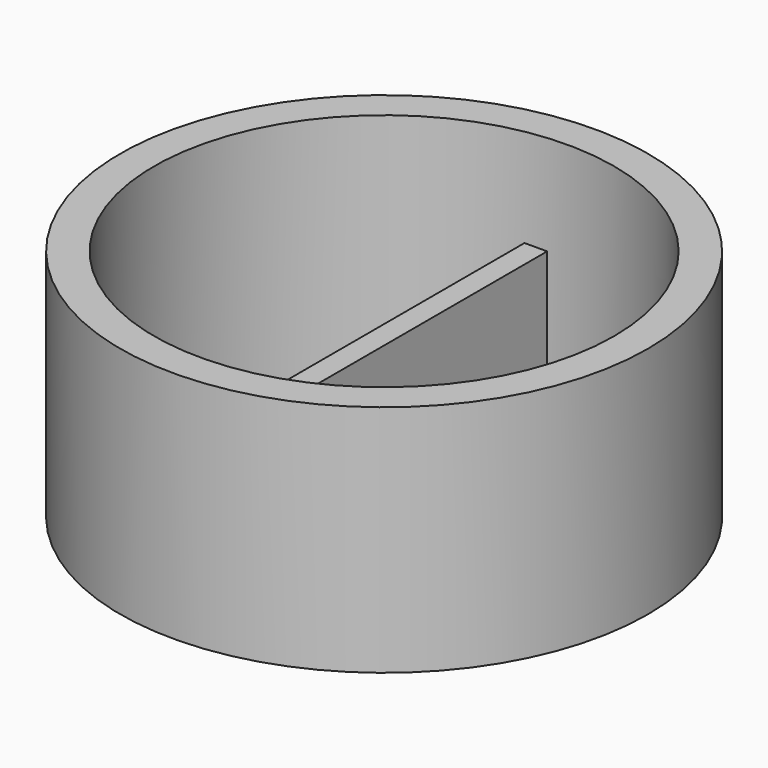
from build123d import *

# Parameters (mm, degrees)
F0_R     = 35
F0_R_2   = 30.5
F1_DEPTH = 31
F3_DEPTH = 18


with BuildPart() as f1:
    # F0 (on Top) → F1 (new body)
    with BuildSketch(Plane.XY):
        Circle(F0_R)
        Circle(F0_R_2, mode=Mode.SUBTRACT)
    extrude(amount=F1_DEPTH)


with BuildPart() as f3:
    # F2 (on Top) → F3 (new body)
    with BuildSketch(Plane.XY):
        Polygon((-5.394651, 30.012392), (-5.394651, -7.9e-05), (-5.394651, -29.987608), (-2.394651, -29.987608), (-2.394651, 30.012392), align=None)
    extrude(amount=F3_DEPTH)


solid = Compound([f1.part, f3.part])
